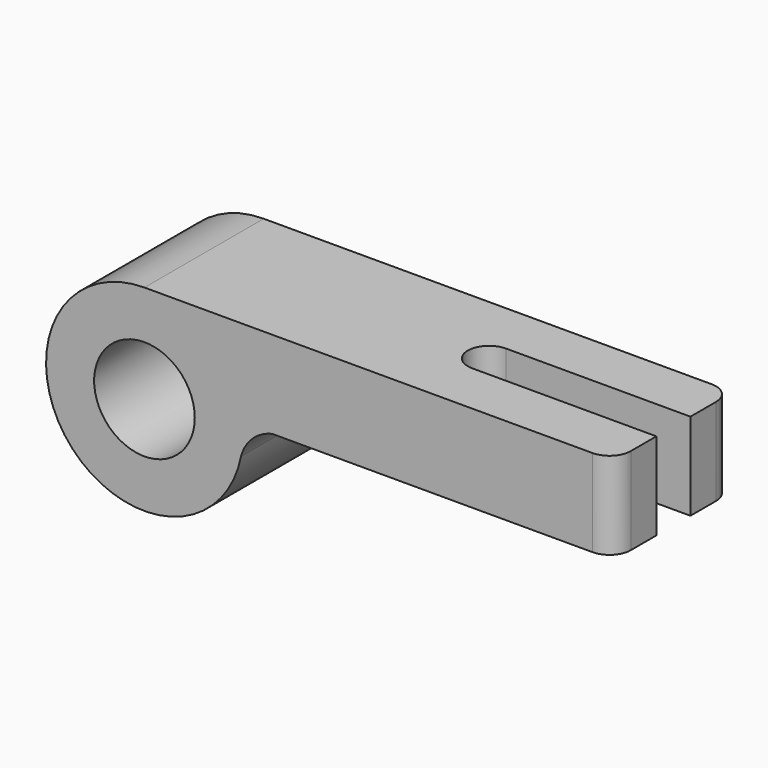
from build123d import *

# Parameters (mm, degrees)
F0_R     = 11.815332
F1_DEPTH = 35
F2_R     = 5
F4_DEPTH = 40


with BuildPart() as f1:
    # F0 (on Front) → F1 (new body)
    with BuildSketch(Plane.XZ):
        with BuildLine():
            Line((47.136076, 23.104757), (-63.083914, 23.104757))
            ThreePointArc((-63.083914, 23.104757), (-80.926867, -14.680376), (-40.412867, -4.447924))
            ThreePointArc((-40.412867, -4.447924), (-37.739192, 0.091286), (-33.111934, 2.609511))
            Line((-33.111934, 2.609511), (47.136076, 2.609511))
            Line((47.136076, 2.609511), (47.136076, 23.104757))
        make_face()
        with Locations((-63.085444, 0)):
            Circle(F0_R, mode=Mode.SUBTRACT)
    extrude(amount=F1_DEPTH)

    # F2
    f2_edges = [f1.edges().sort_by_distance(p)[0] for p in [
        (47.136076, -35, 12.857134),
        (47.136076, 0, 12.857134),
    ]]
    fillet(f2_edges, radius=F2_R)

    # F3 (on face) → F4 (cut)
    with BuildSketch(Plane(origin=(0, 0, 2.609511), x_dir=(1, 0, 0), z_dir=(0, 0, -1))):
        with BuildLine():
            Line((47.136076, 12.5), (47.136076, 22.5))
            Line((47.136076, 22.5), (3.855412, 22.5))
            ThreePointArc((3.855412, 22.5), (-1.144588, 17.5), (3.855412, 12.5))
            Line((3.855412, 12.5), (47.136076, 12.5))
        make_face()
    extrude(amount=-F4_DEPTH, mode=Mode.SUBTRACT)


solid = f1.part
